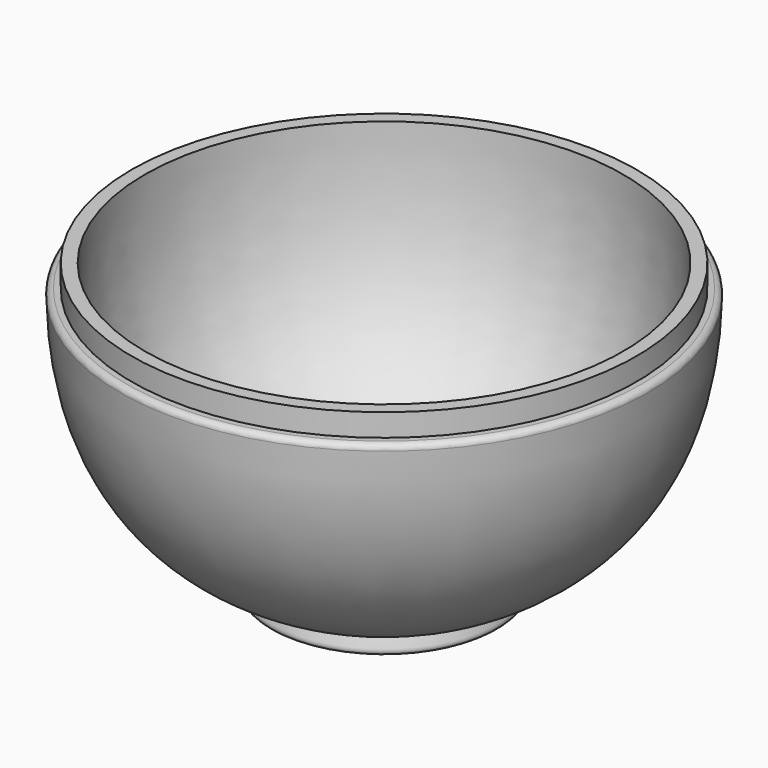
from build123d import *

# Parameters (mm, degrees)
F2_R = 1


with BuildPart() as f1:
    # F0 (on Front) → F1 (revolve)
    with BuildSketch(Plane.XZ):
        with BuildLine():
            add(Edge.make_bspline(
                [(-32.3359110098, 18.1937779991), (-32.4413222202, 5.574056131), (-28.4679104155, -16.693713392), (-4.5759028476, -28.1163602095), (9.2643357338, -28.9264903665)],
                knots=[0, 0, 0, 0, 0.4867258629, 1, 1, 1, 1], degree=3))
            Line((-32.3359110098, 18.1937779991), (-34.6359110098, 18.1937779991))
            Line((-34.6359110098, 18.1937779991), (-34.6359110098, 14.2737779991))
            Line((-34.6359110098, 14.2737779991), (-36.6359110098, 14.2737779991))
            add(Edge.make_bspline(
                [(-36.6359110098, 14.2737779991), (-36.5567092917, 2.9769244924), (-32.1471855902, -14.1520251167), (-18.7019702586, -25.188540859), (-10.1237697936, -28.7877249242)],
                knots=[0, 0, 0, 0, 0.4851178996, 0.8721307396, 0.8721307396, 0.8721307396, 0.8721307396], degree=3))
            add(Edge.make_bspline(
                [(-10.1237697936, -28.7877249242), (-10.1015230554, -28.7970590621), (-10.0792587508, -28.8063844677), (-10.0569768653, -28.8157011393)],
                knots=[0.8721307396, 0.8721307396, 0.8721307396, 0.8721307396, 0.8731344202, 0.8731344202, 0.8731344202, 0.8731344202], degree=3))
            add(Edge.make_bspline(
                [(-9.9453986643, -28.8622209353), (-9.9609816107, -28.8128020061), (-10.0184900831, -28.8210689778), (-10.0569768653, -28.8157011393)],
                knots=[0.9181362292, 0.9181362292, 0.9181362292, 0.9181362292, 0.9642834368, 0.9642834368, 0.9642834368, 0.9642834368], degree=3))
            add(Edge.make_bspline(
                [(-9.9453986643, -28.8622209353), (-7.1587881293, -30.0206879298), (-4.0982701724, -31.0432237787), (-0.7356642662, -31.9264903665)],
                knots=[0.8748075536, 0.8748075536, 0.8748075536, 0.8748075536, 1, 1, 1, 1], degree=3))
            Line((-0.7356642662, -31.9264903665), (9.2643357338, -31.9264903665))
            Line((9.2643357338, -31.9264903665), (9.2643357338, -28.9264903665))
        make_face()
        with BuildLine():
            add(Edge.make_bspline(
                [(-0.7356642662, -31.9264903665), (-1.9933114342, -31.8845050925), (-4.5550922124, -31.9096607211), (-8.3519460045, -32.0399048048), (-11.2915314062, -31.6228987535), (-9.8775261503, -29.0774682232), (-9.9453986643, -28.8622209353)],
                knots=[0, 0, 0, 0, 0.2600961011, 0.5274649648, 0.7171391325, 0.9181362292, 0.9181362292, 0.9181362292, 0.9181362292], degree=3))
            add(Edge.make_bspline(
                [(-9.9453986643, -28.8622209353), (-7.1587881293, -30.0206879298), (-4.0982701724, -31.0432237787), (-0.7356642662, -31.9264903665)],
                knots=[0.8748075536, 0.8748075536, 0.8748075536, 0.8748075536, 1, 1, 1, 1], degree=3))
        make_face()
    revolve(axis=Axis((9.2643357338, 0, -30.4264903665), (0, 0, 1)))

    # F2
    f2_edges = [f1.edges().sort_by_distance(p)[0] for p in [
        (55.164582, 0, 14.273778),
    ]]
    fillet(f2_edges, radius=F2_R)


solid = f1.part
